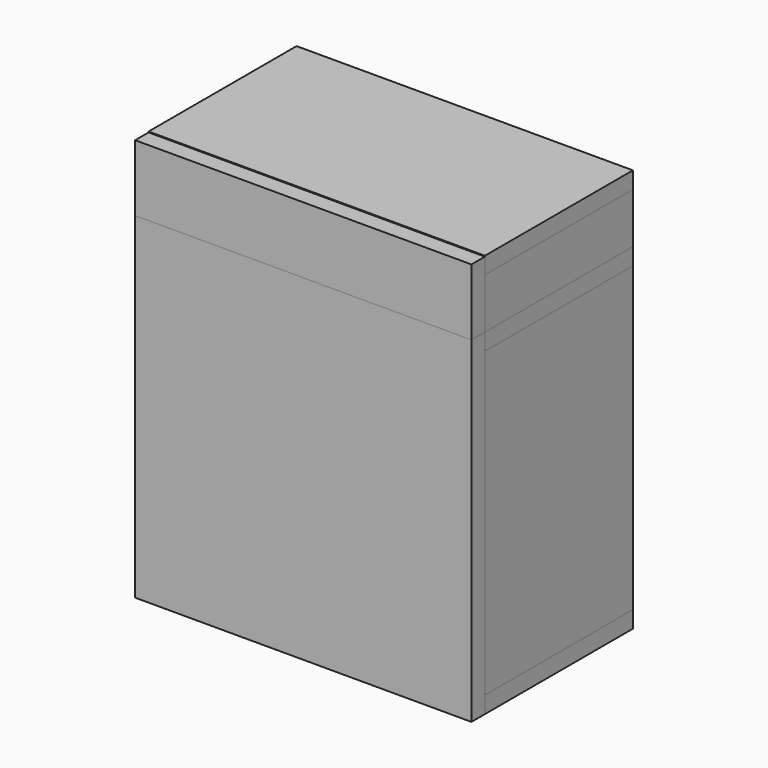
from build123d import *

# Parameters (mm, degrees)
F0_W      = 508
F0_H      = 279.4
F0_W_2    = 355.6
F0_H_2    = 165.1
F1_DEPTH  = 25.4
F2_W      = 25.4
F2_H      = 279.4
F3_DEPTH  = 76.2
F4_W      = 25.4
F4_H      = 279.4
F5_DEPTH  = 76.2
F6_W      = 457.2
F6_H      = 25.4
F7_DEPTH  = 76.2
F9_DEPTH  = 58.42
F10_W     = 508
F10_H     = 279.4
F11_DEPTH = 25.4
F12_W     = 25.4
F12_H     = 279.4
F13_DEPTH = 457.2
F14_W     = 25.4
F14_H     = 279.4
F15_DEPTH = 457.2
F16_W     = 508
F16_H     = 279.4
F17_DEPTH = 25.4
F18_W     = 25.4
F18_H     = 457.2
F19_DEPTH = 457.2
F20_W     = 508
F20_H     = 508
F21_DEPTH = 25.4
F22_W     = 508
F22_H     = 100.347652
F23_DEPTH = 25.4
F24_W     = 76.2
F24_H     = 76.2
F25_DEPTH = 25.4
F27_DEPTH = 114.3


with BuildPart() as f1:
    # F0 (on Top) → F1 (new body)
    with BuildSketch(Plane.XY):
        with Locations((254, 139.7)):
            Rectangle(F0_W, F0_H)
        with Locations((254, 127)):
            Rectangle(F0_W_2, F0_H_2, mode=Mode.SUBTRACT)
    extrude(amount=F1_DEPTH)


with BuildPart() as f3:
    # F2 (on face) → F3 (new body)
    with BuildSketch(Plane.XY.offset(25.4)):
        with Locations((12.7, 139.7)):
            Rectangle(F2_W, F2_H)
    extrude(amount=F3_DEPTH)


with BuildPart() as f5:
    # F4 (on face) → F5 (new body)
    with BuildSketch(Plane.XY.offset(25.4)):
        with Locations((495.3, 139.7)):
            Rectangle(F4_W, F4_H)
    extrude(amount=F5_DEPTH)


with BuildPart() as f7:
    # F6 (on face) → F7 (new body)
    with BuildSketch(Plane.XY.offset(25.4)):
        with Locations((254, 266.7)):
            Rectangle(F6_W, F6_H)
    extrude(amount=F7_DEPTH)


with BuildPart() as f9:
    # F8 (on face) → F9 (new body)
    with BuildSketch(Plane.XY.offset(25.4)):
        with BuildLine():
            Line((427.99, 233.68), (80.01, 233.68))
            ThreePointArc((80.01, 233.68), (62.049488, 226.240512), (54.61, 208.28))
            Line((54.61, 208.28), (54.61, 45.72))
            ThreePointArc((54.61, 45.72), (62.049488, 27.759488), (80.01, 20.32))
            Line((80.01, 20.32), (427.99, 20.32))
            ThreePointArc((427.99, 20.32), (445.950512, 27.759488), (453.39, 45.72))
            Line((453.39, 45.72), (453.39, 208.28))
            ThreePointArc((453.39, 208.28), (445.950512, 226.240512), (427.99, 233.68))
        make_face()
    extrude(amount=F9_DEPTH)


with BuildPart() as f11:
    # F10 (on face) → F11 (new body)
    with BuildSketch(Plane.XY.offset(101.6)):
        with Locations((254, 139.7)):
            Rectangle(F10_W, F10_H)
    extrude(amount=F11_DEPTH)


with BuildPart() as f13:
    # F12 (on face) → F13 (new body)
    with BuildSketch(Plane(origin=(0, 0, 0), x_dir=(1, 0, 0), z_dir=(0, 0, -1))):
        with Locations((12.7, -139.7)):
            Rectangle(F12_W, F12_H)
    extrude(amount=F13_DEPTH)


with BuildPart() as f15:
    # F14 (on face) → F15 (new body)
    with BuildSketch(Plane(origin=(0, 0, 0), x_dir=(1, 0, 0), z_dir=(0, 0, -1))):
        with Locations((495.3, -139.7)):
            Rectangle(F14_W, F14_H)
    extrude(amount=F15_DEPTH)


with BuildPart() as f17:
    # F16 (on face) → F17 (new body)
    with BuildSketch(Plane(origin=(0, 0, -457.2), x_dir=(1, 0, 0), z_dir=(0, 0, -1))):
        with Locations((254, -139.7)):
            Rectangle(F16_W, F16_H)
    extrude(amount=F17_DEPTH)


with BuildPart() as f19:
    # F18 (on face) → F19 (new body)
    with BuildSketch(Plane.YZ.offset(25.4)):
        with Locations((266.7, -228.6)):
            Rectangle(F18_W, F18_H)
    extrude(amount=F19_DEPTH)

    # F24 (on face) → F25 (cut, through all)
    with BuildSketch(Plane(origin=(0, 279.4, 0), x_dir=(-1, 0, 0), z_dir=(0, 1, 0))):
        with Locations((-254, -215.9)):
            Rectangle(F24_W, F24_H)
    extrude(amount=-F25_DEPTH, mode=Mode.SUBTRACT)


with BuildPart() as f21:
    # F20 (on face) → F21 (new body)
    with BuildSketch(Plane.XZ):
        with Locations((254, -228.6)):
            Rectangle(F20_W, F20_H)
    extrude(amount=F21_DEPTH)


with BuildPart() as f23:
    # F22 (on face) → F23 (new body)
    with BuildSketch(Plane.XZ):
        with Locations((254, 75.573826)):
            Rectangle(F22_W, F22_H)
    extrude(amount=F23_DEPTH)


with BuildPart() as f27:
    # F26 (on face) → F27 (new body)
    with BuildSketch(Plane.XY.offset(-457.2)):
        with BuildLine():
            ThreePointArc((63.5, 47.498), (70.939488, 29.537488), (88.9, 22.098))
            Line((88.9, 22.098), (203.2, 22.098))
            ThreePointArc((203.2, 22.098), (221.160512, 29.537488), (228.6, 47.498))
            Line((228.6, 47.498), (228.6, 190.5))
            ThreePointArc((228.6, 190.5), (221.160512, 208.460512), (203.2, 215.9))
            Line((203.2, 215.9), (88.9, 215.9))
            ThreePointArc((88.9, 215.9), (70.939488, 208.460512), (63.5, 190.5))
            Line((63.5, 190.5), (63.5, 47.498))
        make_face()
        with BuildLine():
            ThreePointArc((444.5, 190.5), (437.060512, 208.460512), (419.1, 215.9))
            Line((419.1, 215.9), (304.8, 215.9))
            ThreePointArc((304.8, 215.9), (286.839488, 208.460512), (279.4, 190.5))
            Line((279.4, 190.5), (279.4, 47.498))
            ThreePointArc((279.4, 47.498), (286.839488, 29.537488), (304.8, 22.098))
            Line((304.8, 22.098), (419.1, 22.098))
            ThreePointArc((419.1, 22.098), (437.060512, 29.537488), (444.5, 47.498))
            Line((444.5, 47.498), (444.5, 190.5))
        make_face()
    extrude(amount=F27_DEPTH)


solid = Compound([f1.part, f3.part, f5.part, f7.part, f9.part, f11.part, f13.part, f15.part, f17.part, f19.part, f21.part, f23.part, f27.part])
